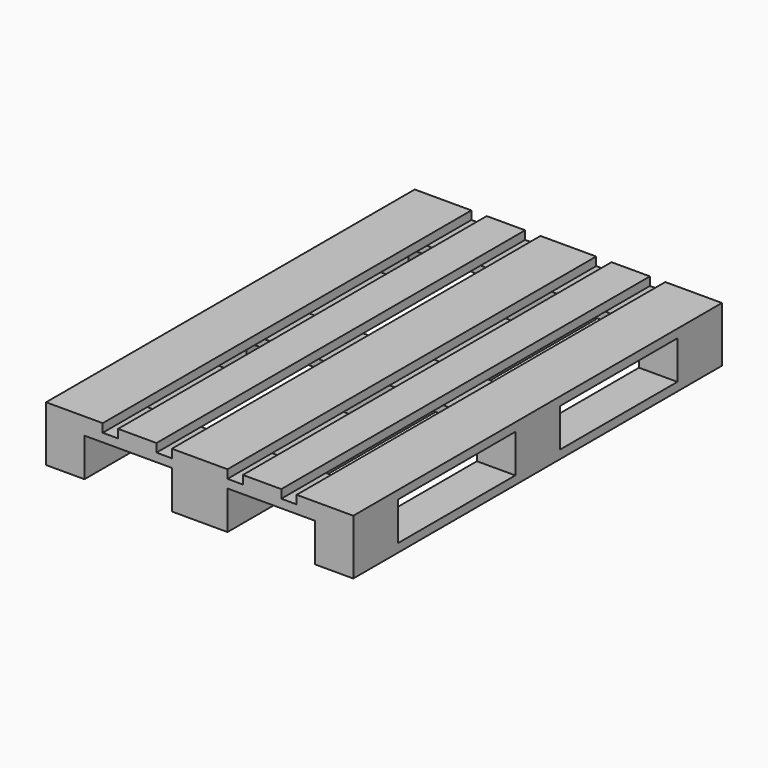
from build123d import *

# Parameters (mm, degrees)
SKETCH_W            = 1200
SKETCH_H            = 144
SKETCH_W_2          = 382.5
SKETCH_H_2          = 78
PAD_DEPTH           = 400
PAD_DEPTH_BACK      = 400
SKETCH001_W         = 100
SKETCH001_H         = 227.5
SKETCH001_W_2       = 22
SKETCH001_H_2       = 40
POCKET_DEPTH        = 1200
MIRROREDSKETCH_W    = 100
MIRROREDSKETCH_H    = 227.5
MIRROREDSKETCH_W_2  = 22
MIRROREDSKETCH_H_2  = 40
POCKET001_DEPTH     = 1200
SKETCH002_W         = 382.5
SKETCH002_H         = 100
POCKET002_DEPTH     = 800
MIRROREDSKETCH002_W = 382.5
MIRROREDSKETCH002_H = 100
POCKET003_DEPTH     = 800


with BuildPart() as part:
    # Sketch → Pad (new body, two sides)
    with BuildSketch(Plane.YZ) as pad_sk:
        Rectangle(SKETCH_W, SKETCH_H)
        with Locations((-263.75, -11)):
            Rectangle(SKETCH_W_2, SKETCH_H_2, mode=Mode.SUBTRACT)
        with Locations((263.75, -11)):
            Rectangle(SKETCH_W_2, SKETCH_H_2, mode=Mode.SUBTRACT)
    extrude(amount=PAD_DEPTH)
    extrude(pad_sk.sketch, amount=-PAD_DEPTH_BACK)

    # Sketch001 (on Face4 of Pad) → Pocket (cut)
    with BuildSketch(Plane(origin=(0, -600, 0), x_dir=(0, 0, -1), z_dir=(0, -1, 0))):
        with Locations((22, 186.25)):
            Rectangle(SKETCH001_W, SKETCH001_H)
        with Locations((-61, 92.5)):
            Rectangle(SKETCH001_W_2, SKETCH001_H_2)
        with Locations((-61, 232.5)):
            Rectangle(SKETCH001_W_2, SKETCH001_H_2)
    extrude(amount=-POCKET_DEPTH, mode=Mode.SUBTRACT)

    # MirroredSketch → Pocket001 (cut)
    with BuildSketch(Plane(origin=(0, -600, 0), x_dir=(0, 0, -1), z_dir=(0, -1, 0))):
        with Locations((22, -186.25)):
            Rectangle(MIRROREDSKETCH_W, MIRROREDSKETCH_H)
        with Locations((-61, -92.5)):
            Rectangle(MIRROREDSKETCH_W_2, MIRROREDSKETCH_H_2)
        with Locations((-61, -232.5)):
            Rectangle(MIRROREDSKETCH_W_2, MIRROREDSKETCH_H_2)
    extrude(amount=-POCKET001_DEPTH, mode=Mode.SUBTRACT)

    # Sketch002 (on Face31 of Pocket001) → Pocket002 (cut)
    with BuildSketch(Plane.YZ.offset(400)):
        with Locations((-263.75, 0)):
            Rectangle(SKETCH002_W, SKETCH002_H)
    extrude(amount=-POCKET002_DEPTH, mode=Mode.SUBTRACT)

    # MirroredSketch002 → Pocket003 (cut)
    with BuildSketch(Plane.YZ.offset(400)):
        with Locations((263.75, 0)):
            Rectangle(MIRROREDSKETCH002_W, MIRROREDSKETCH002_H)
    extrude(amount=-POCKET003_DEPTH, mode=Mode.SUBTRACT)


solid = part.part
